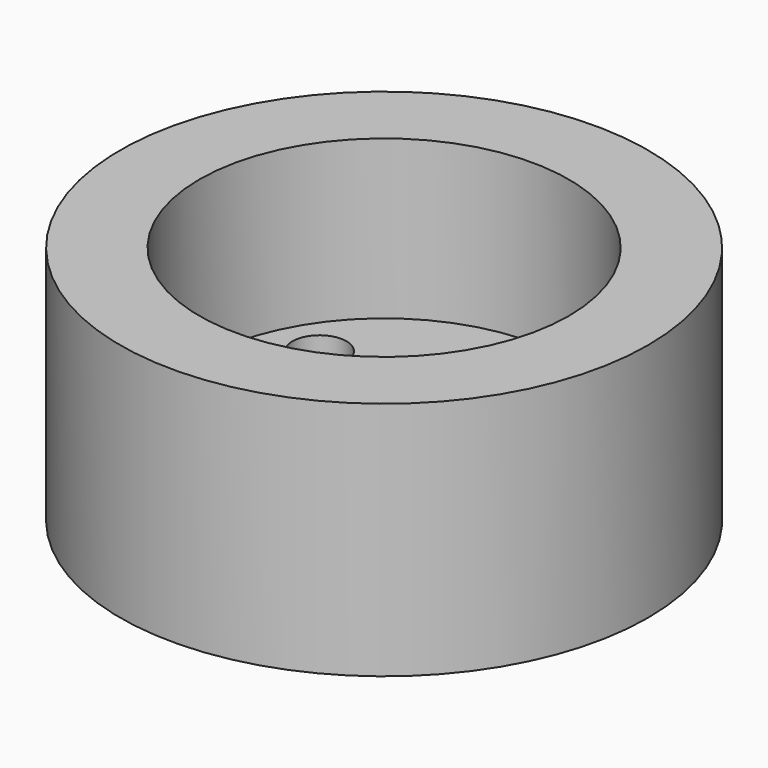
from build123d import *

# Parameters (mm, degrees)
F0_R           = 55
F0_R_2         = 3
F1_DEPTH       = 50
F2_R           = 38.5
F2_R_2         = 3
F3_DEPTH       = 33
F5_D           = 6.6
F5_CBORE_D     = 11.25
F5_CBORE_DEPTH = 6


with BuildPart() as f1:
    # F0 (on Top) → F1 (new body)
    with BuildSketch(Plane.XY):
        Circle(F0_R)
        with BuildLine():
            ThreePointArc((28.0281341694, -14.45), (25.8045913047, -17.3477774789), (22.430057958, -15.95))
            Line((22.430057958, -15.95), (2.5980762114, -27.4))
            ThreePointArc((2.5980762114, -27.4), (2.8977774789, -28.1235428647), (3, -28.9))
            ThreePointArc((3, -28.9), (-0.7764571353, -31.7977774789), (-2.5980762114, -27.4))
            Line((-2.5980762114, -27.4), (-22.430057958, -15.95))
            ThreePointArc((-22.430057958, -15.95), (-27.6262103807, -15.95), (-25.0281341694, -11.45))
            Line((-25.0281341694, -11.45), (-25.0281341694, 11.45))
            ThreePointArc((-25.0281341694, 11.45), (-27.6262103807, 15.95), (-22.430057958, 15.95))
            Line((-22.430057958, 15.95), (-2.5980762114, 27.4))
            ThreePointArc((-2.5980762114, 27.4), (-0.7764571353, 31.7977774789), (3, 28.9))
            ThreePointArc((3, 28.9), (2.8977774789, 28.1235428647), (2.5980762114, 27.4))
            Line((2.5980762114, 27.4), (22.430057958, 15.95))
            ThreePointArc((22.430057958, 15.95), (25.8045913047, 17.3477774789), (28.0281341694, 14.45))
            ThreePointArc((28.0281341694, 14.45), (27.1494545129, 12.3286796564), (25.0281341694, 11.45))
            Line((25.0281341694, 11.45), (25.0281341694, -11.45))
            ThreePointArc((25.0281341694, -11.45), (27.1494545129, -12.3286796564), (28.0281341694, -14.45))
        make_face(mode=Mode.SUBTRACT)
        with BuildLine():
            Line((2.5980762114, -27.4), (22.430057958, -15.95))
            ThreePointArc((22.430057958, -15.95), (22.430057958, -12.95), (25.0281341694, -11.45))
            Line((25.0281341694, -11.45), (25.0281341694, 11.45))
            ThreePointArc((25.0281341694, 11.45), (22.430057958, 12.95), (22.430057958, 15.95))
            Line((22.430057958, 15.95), (2.5980762114, 27.4))
            ThreePointArc((2.5980762114, 27.4), (0, 25.9), (-2.5980762114, 27.4))
            Line((-2.5980762114, 27.4), (-22.430057958, 15.95))
            ThreePointArc((-22.430057958, 15.95), (-22.1303566905, 15.2264571353), (-22.0281341694, 14.45))
            ThreePointArc((-22.0281341694, 14.45), (-22.9068138258, 12.3286796564), (-25.0281341694, 11.45))
            Line((-25.0281341694, 11.45), (-25.0281341694, -11.45))
            ThreePointArc((-25.0281341694, -11.45), (-22.9068138258, -12.3286796564), (-22.0281341694, -14.45))
            ThreePointArc((-22.0281341694, -14.45), (-22.1303566905, -15.2264571353), (-22.430057958, -15.95))
            Line((-22.430057958, -15.95), (-2.5980762114, -27.4))
            ThreePointArc((-2.5980762114, -27.4), (0, -25.9), (2.5980762114, -27.4))
        make_face()
        Circle(F0_R_2, mode=Mode.SUBTRACT)
    extrude(amount=F1_DEPTH)

    # F2 (on face) → F3 (cut)
    with BuildSketch(Plane.XY.offset(50)):
        Circle(F2_R)
        with Locations((-25.0281341694, -14.45)):
            Circle(F2_R_2, mode=Mode.SUBTRACT)
        with Locations((0, -28.9)):
            Circle(F2_R_2, mode=Mode.SUBTRACT)
        with Locations((25.0281341694, -14.45)):
            Circle(F2_R_2, mode=Mode.SUBTRACT)
        with Locations((-25.0281341694, 14.45)):
            Circle(F2_R_2, mode=Mode.SUBTRACT)
        Circle(F2_R_2, mode=Mode.SUBTRACT)
        with Locations((25.0281341694, 14.45)):
            Circle(F2_R_2, mode=Mode.SUBTRACT)
        with Locations((0, 28.9)):
            Circle(F2_R_2, mode=Mode.SUBTRACT)
    extrude(amount=-F3_DEPTH, mode=Mode.SUBTRACT)

    # F5 (through all)
    with Locations(Plane.XY.offset(17)):
        with Locations((-25.0281341694, 14.45), (-25.0281341694, -14.45), (0, -28.9), (25.0281341694, -14.45), (25.0281341694, 14.45), (0, 28.9), (0, 0)):
            CounterBoreHole(F5_D / 2, F5_CBORE_D / 2, F5_CBORE_DEPTH)


solid = f1.part
